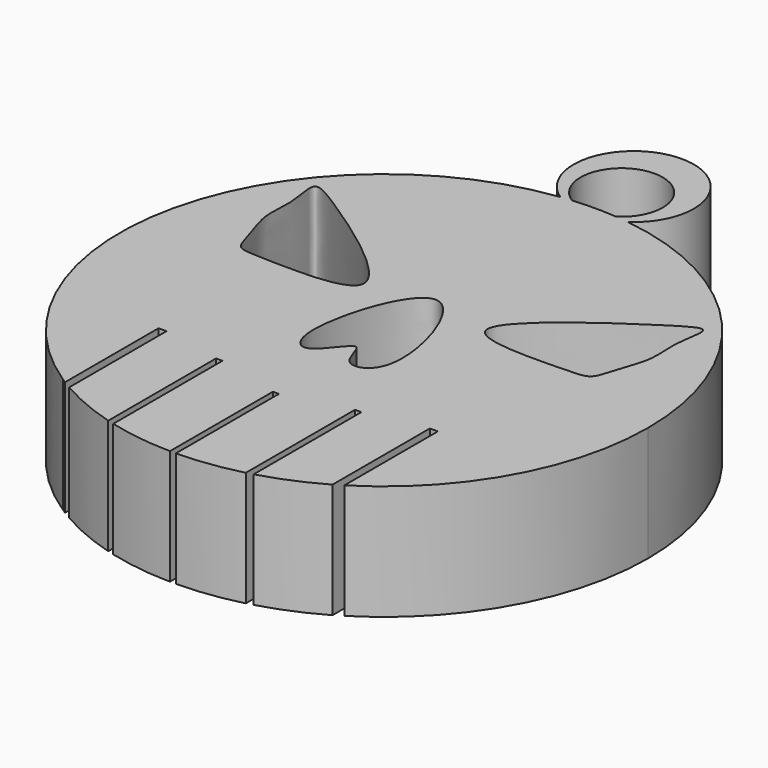
from build123d import *

# Parameters (mm, degrees)
F1_DEPTH = 25.4


with BuildPart() as f1:
    # F0 (on Top) → F1 (new body)
    with BuildSketch(Plane.XY):
        with BuildLine():
            ThreePointArc((30.8535993099, -4.4157840249), (51.0130957631, 16.7854556593), (58.347572767, 45.1068840921))
            ThreePointArc((58.347572767, 45.1068840921), (43.852326854, 83.5960082351), (7.5686763352, 102.9614810256))
            ThreePointArc((7.5686763352, 102.9614810256), (6.1509528321, 103.129336876), (4.7295469743, 103.2624567677))
            ThreePointArc((4.7295469743, 103.2624567677), (-0.1321923759, 103.4543071113), (-4.9930125051, 103.2404292612))
            ThreePointArc((-4.9930125051, 103.2404292612), (-6.1958302948, 103.1245618702), (-7.3959906348, 102.9838101536))
            ThreePointArc((-7.3959906348, 102.9838101536), (-56.8774451223, 58.1220861332), (-31.8298459323, -3.794037737))
            Line((-31.8298459323, -3.794037737), (-31.6190180173, -3.794037737))
            Line((-31.6190180173, -3.794037737), (-31.6190180173, -3.9306214259))
            ThreePointArc((-31.6190180173, -3.9306214259), (-31.2372505931, -4.1746887642), (-30.8535993099, -4.4157840249))
            Line((-30.8535993099, -4.4157840249), (-30.8535993099, 21.4036349207))
            Line((-30.8535993099, 21.4036349207), (-29.086828904, 21.4036349207))
            Line((-29.086828904, 21.4036349207), (-29.086828904, -5.4737014335))
            ThreePointArc((-29.086828904, -5.4737014335), (-22.7396370491, -8.6271661431), (-16.0569306463, -10.9878057281))
            Line((-16.0569306463, -10.9878057281), (-16.0569306463, 18.7828950584))
            Line((-16.0569306463, 18.7828950584), (-14.6449233324, 18.7828950584))
            Line((-14.6449233324, 18.7828950584), (-14.6449233324, -11.3728951957))
            ThreePointArc((-14.6449233324, -11.3728951957), (-7.6939242613, -12.7311896765), (-0.6295621325, -13.2372921325))
            Line((-0.6295621325, -13.2372921325), (-0.6295621325, 15.1916090399))
            Line((-0.6295621325, 15.1916090399), (0.6865363102, 15.1916090399))
            Line((0.6865363102, 15.1916090399), (0.6865363102, -13.2366495316))
            ThreePointArc((0.6865363102, -13.2366495316), (7.722163476, -12.7274261316), (14.6449233324, -11.3728951957))
            Line((14.6449233324, -11.3728951957), (14.6449233324, 18.7828950584))
            Line((14.6449233324, 18.7828950584), (16.0569306463, 18.7828950584))
            Line((16.0569306463, 18.7828950584), (16.0569306463, -10.9878057281))
            ThreePointArc((16.0569306463, -10.9878057281), (22.7396370491, -8.6271661431), (29.086828904, -5.4737014335))
            Line((29.086828904, -5.4737014335), (29.086828904, 21.4036349207))
            Line((29.086828904, 21.4036349207), (30.8535993099, 21.4036349207))
            Line((30.8535993099, 21.4036349207), (30.8535993099, -4.4157840249))
        make_face()
        with BuildLine():
            add(Edge.make_bspline(
                [(0, 59.581592679), (-5.1744224366, 60.0052676457), (-12.6268059879, 36.4629573704), (-5.8511859394, 28.7499016601), (0.846767048, 41.3067506684), (1.3609583881, 29.9680401259), (13.4525305094, 33.3165466695), (5.2759383626, 59.1496057206), (0, 59.581592679)],
                knots=[0, 0, 0, 0, 0.2461617493, 0.3674777738, 0.5071240723, 0.6245056694, 0.7490088542, 1, 1, 1, 1], degree=3))
        make_face(mode=Mode.SUBTRACT)
        with BuildLine():
            add(Edge.make_bspline(
                [(-36.7649719119, 76.8771916628), (-28.7192071866, 71.7363100119), (0.2323351041, 51.9487887099), (-33.0474097049, 53.1752546508), (-39.2200220876, 53.1107869017), (-40.1181378051, 58.1129896149), (-43.372489282, 65.7563729144), (-41.8392659481, 72.2367042488), (-44.425070872, 81.4599884568), (-40.5156485459, 79.2737052752), (-36.7649719119, 76.8771916628)],
                knots=[0, 0, 0, 0, 0.2214766404, 0.3948821826, 0.4949979166, 0.5749687847, 0.6880101274, 0.7951541475, 0.8967547165, 1, 1, 1, 1], degree=3))
        make_face(mode=Mode.SUBTRACT)
        with BuildLine():
            add(Edge.make_bspline(
                [(36.7649719119, 76.8771916628), (28.7192071866, 71.7363100119), (-0.2323351041, 51.9487887099), (33.0474097049, 53.1752546508), (39.2200220876, 53.1107869017), (40.1181378051, 58.1129896149), (43.372489282, 65.7563729144), (41.8392659481, 72.2367042488), (44.425070872, 81.4599884568), (40.5156485459, 79.2737052752), (36.7649719119, 76.8771916628)],
                knots=[0, 0, 0, 0, 0.2214766404, 0.3948821826, 0.4949979166, 0.5749687847, 0.6880101274, 0.7951541475, 0.8967547165, 1, 1, 1, 1], degree=3))
        make_face(mode=Mode.SUBTRACT)
        with BuildLine():
            ThreePointArc((4.7295469743, 103.2624567677), (6.1509528321, 103.129336876), (7.5686763352, 102.9614810256))
            ThreePointArc((7.5686763352, 102.9614810256), (0.1225116505, 127.2124658536), (-7.3959906348, 102.9838101536))
            ThreePointArc((-7.3959906348, 102.9838101536), (-6.1958302948, 103.1245618702), (-4.9930125051, 103.2404292612))
            ThreePointArc((-4.9930125051, 103.2404292612), (-0.1696488917, 119.9869638405), (4.7295469743, 103.2624567677))
        make_face()
    extrude(amount=F1_DEPTH)


solid = f1.part
